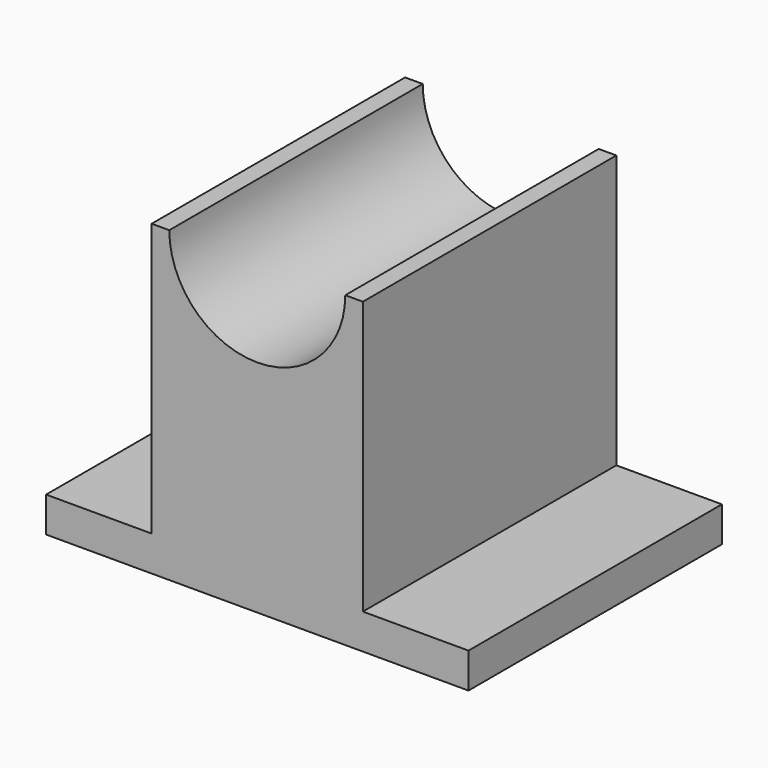
from build123d import *

# Parameters (mm, degrees)
F1_DEPTH = 114.3
F3_DEPTH = 114.301


with BuildPart() as f1:
    # F0 (on Front) → F1 (new body)
    with BuildSketch(Plane.XZ):
        Polygon((-38.1, 0), (0, 0), (114.3, 0), (114.3, 12.7), (76.2, 12.7), (76.2, 111.125), (0, 111.125), (0, 12.7), (-38.1, 12.7), align=None)
    extrude(amount=F1_DEPTH)

    # F2 (on face) → F3 (cut, through all)
    with BuildSketch(Plane.XZ.offset(114.3)):
        with BuildLine():
            Line((69.85, 111.125), (6.35, 111.125))
            ThreePointArc((6.35, 111.125), (38.1, 79.426661), (69.85, 111.125))
        make_face()
    extrude(amount=-F3_DEPTH, mode=Mode.SUBTRACT)


solid = f1.part
